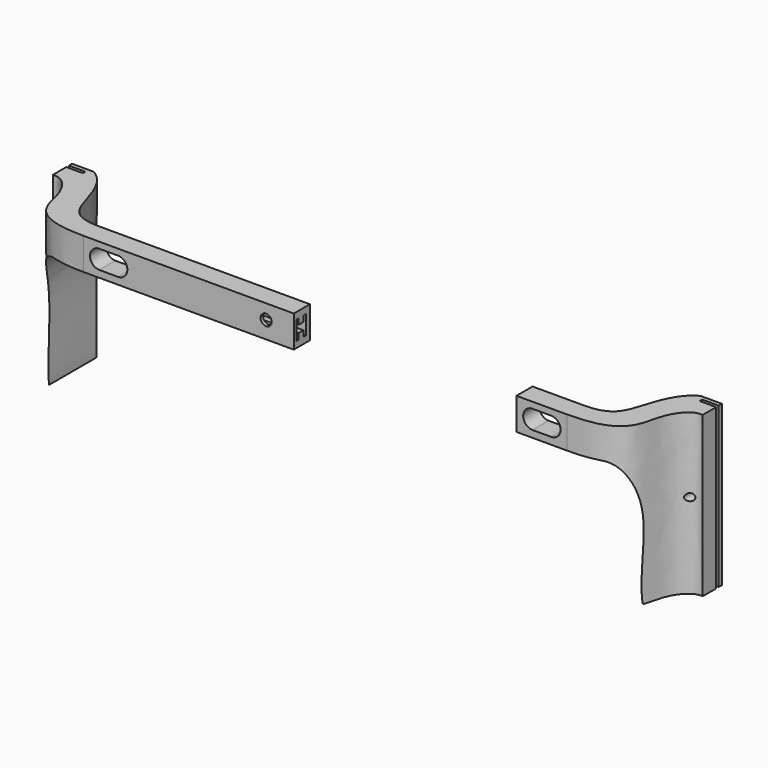
from build123d import *

# Parameters (mm, degrees)
F1_DEPTH = 25
F2_R     = 0.5691574729
F3_DEPTH = 25
F5_W     = 3.151708856
F5_H     = 4.9834471196
F6_DEPTH = 25
F7_R     = 0.8729634821
F8_DEPTH = 0.5032406053


with BuildPart() as f1:
    # F0 (on Top) → F1 (new body)
    with BuildSketch(Plane.XY):
        with BuildLine():
            Line((50.8666671813, 5.4964012992), (47.5485259414, 5.4964012992))
            add(Edge.make_bspline(
                [(38.0922677794, -5.3854089879), (42.6775189713, -5.3219218698), (43.0188064709, -1.2546433805), (45.6184373211, 4.6135282339), (47.5485259414, 5.4964012992)],
                knots=[0, 0, 0, 0, 0.4842694553, 0.8352208318, 0.8352208318, 0.8352208318, 0.8352208318], degree=3))
            Line((38.0922677794, -5.3854089879), (29.9323219806, -5.3854089879))
            Line((29.9323219806, -5.3854089879), (29.9323219806, -8.5371178439))
            Line((29.9323219806, -8.5371178439), (37.8296850544, -8.5371178439))
            add(Edge.make_bspline(
                [(37.8296850544, -8.5371178439), (46.9920461772, -8.5371178439), (45.7497731331, -2.0131561568), (49.4362264278, 1.9699170904), (50.8666671813, 1.7187654739)],
                knots=[0, 0, 0, 0, 0.6103006755, 1, 1, 1, 1], degree=3))
            Line((50.8666671813, 1.7187654739), (50.8666671813, 4.3712230399))
            Line((50.8666671813, 4.3712230399), (48.2869036496, 4.3712230399))
            Line((48.2869036496, 4.3712230399), (48.2869036496, 4.86399699))
            Line((48.2869036496, 4.86399699), (50.8666671813, 4.86399699))
            Line((50.8666671813, 4.86399699), (50.8666671813, 5.4964012992))
        make_face()
    extrude(amount=F1_DEPTH)

    # F2 (on face) → F3 (cut)
    with BuildSketch(Plane.XZ.offset(8.5371178439)):
        with BuildLine():
            Line((42.7652262151, 20.0165528804), (29.9323219806, 20.0165528804))
            Line((29.9323219806, 20.0165528804), (29.9323219806, 0))
            Line((29.9323219806, 0), (46.4819632471, 0))
            add(Edge.make_bspline(
                [(42.7652262151, 20.0165528804), (48.1412187219, 20.0829226524), (46.0173711181, 7.1407188661), (46.4819632471, 0)],
                knots=[0, 0, 0, 0, 20.3586965049, 20.3586965049, 20.3586965049, 20.3586965049], degree=3))
        make_face()
        with BuildLine():
            Line((35.3695498758, 24.0266271856), (32.4453003705, 24.0266271856))
            ThreePointArc((32.4453003705, 24.0266271856), (30.9831756178, 22.5645024329), (32.4453003705, 21.1023776803))
            Line((32.4453003705, 21.1023776803), (35.3695498758, 21.1023776803))
            ThreePointArc((35.3695498758, 21.1023776803), (36.8316746285, 22.5645024329), (35.3695498758, 24.0266271856))
        make_face()
        with Locations((49.258325249, 13.3192716166)):
            Circle(F2_R)
    extrude(amount=-F3_DEPTH, mode=Mode.SUBTRACT)


with BuildPart() as f4_1:
    # F4: instance of F1
    add(f1.part.mirror(Plane.YZ))

    # F5 (on face) → F6 (join)
    with BuildSketch(Plane.YZ.offset(-29.9323219806)):
        with Locations((-6.9612634159, 22.5082764402)):
            Rectangle(F5_W, F5_H)
        Polygon((-8.0338772386, 21.0032649338), (-8.0338772386, 23.9541586488), (-7.5688902289, 23.9541586488), (-7.5688902289, 23.0597723275), (-6.644862704, 23.0597723275), (-6.644862704, 23.9541586488), (-6.1279390939, 23.9541586488), (-6.1279390939, 21.0032649338), (-6.644862704, 21.0032649338), (-6.644862704, 21.9209678471), (-7.5688902289, 21.9209678471), (-7.5688902289, 21.0032649338), align=None, mode=Mode.SUBTRACT)
    extrude(amount=F6_DEPTH)

    # F7 (on face) → F8 (cut, through all)
    with BuildSketch(Plane.XZ.offset(8.5371178439)):
        with Locations((-9.2585654929, 22.7128434926)):
            Circle(F7_R)
    extrude(amount=-F8_DEPTH, mode=Mode.SUBTRACT)


solid = Compound([f1.part, f4_1.part])
